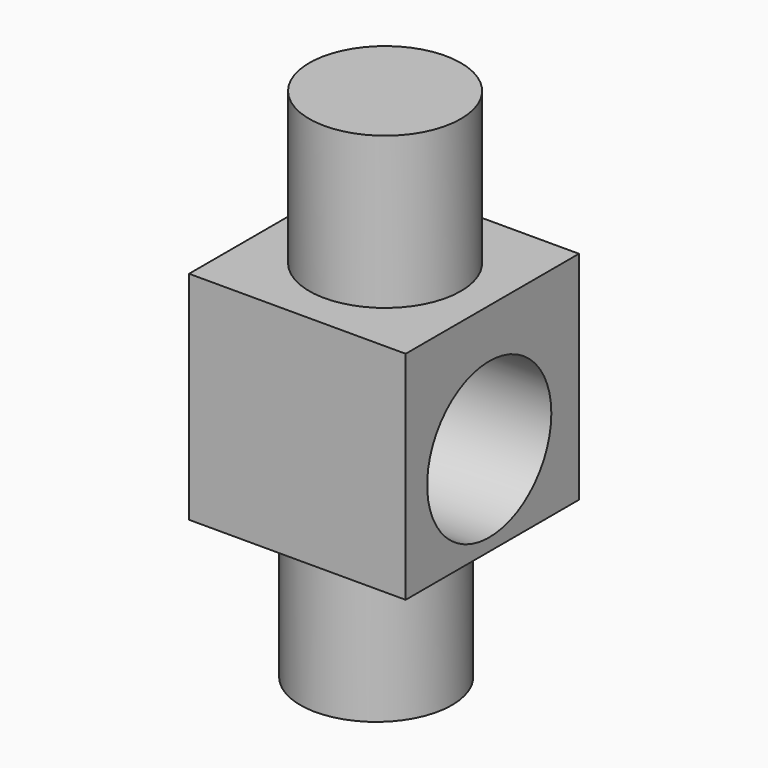
from build123d import *

# Parameters (mm, degrees)
F0_W     = 100
F0_H     = 100
F1_DEPTH = 100
F2_R     = 35
F3_DEPTH = 70
F4_R     = 35
F5_DEPTH = 70
F6_R     = 35.831908
F7_DEPTH = 100.001


with BuildPart() as f1:
    # F0 (on Front) → F1 (new body)
    with BuildSketch(Plane.XZ):
        with Locations((50, 50)):
            Rectangle(F0_W, F0_H)
    extrude(amount=F1_DEPTH)

    # F2 (on face) → F3 (join)
    with BuildSketch(Plane.XY.offset(100)):
        with Locations((50.003812, -49.382195)):
            Circle(F2_R)
    extrude(amount=F3_DEPTH)

    # F4 (on face) → F5 (join)
    with BuildSketch(Plane(origin=(0, 0, 0), x_dir=(1, 0, 0), z_dir=(0, 0, -1))):
        with Locations((45.392986, 48.75914)):
            Circle(F4_R)
    extrude(amount=F5_DEPTH)

    # F6 (on face) → F7 (cut, through all)
    with BuildSketch(Plane.YZ.offset(100)):
        with Locations((-51.767617, 41.582473)):
            Circle(F6_R)
    extrude(amount=-F7_DEPTH, mode=Mode.SUBTRACT)


solid = f1.part
